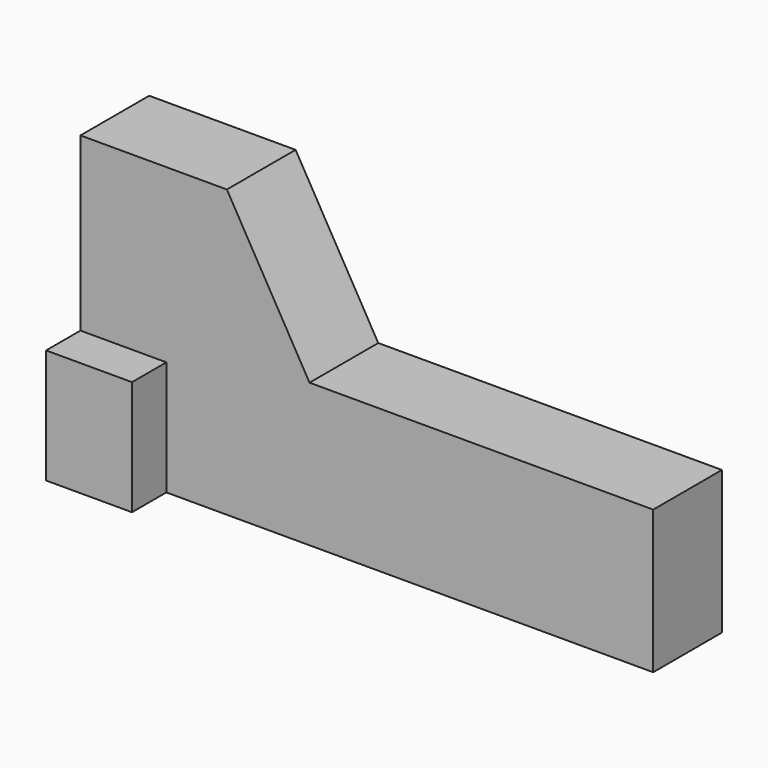
from build123d import *

# Parameters (mm, degrees)
F1_DEPTH = 19.05
F2_W     = 19.05
F2_H     = 25.4
F3_DEPTH = 9.525
F4_W     = 19.05
F4_H     = 25.4
F5_DEPTH = 9.525


with BuildPart() as f1:
    # F0 (on Front) → F1 (new body)
    with BuildSketch(Plane.XZ):
        Polygon((-24.033516, 31.16705), (-56.502645, 31.16705), (-56.502645, -32.33295), (70.497355, -32.33295), (70.497355, -0.58295), (-5.702645, -0.58295), align=None)
    extrude(amount=F1_DEPTH)

    # F2 (on face) → F3 (join)
    with BuildSketch(Plane.XZ.offset(19.05)):
        with Locations((-46.977645, -19.63295)):
            Rectangle(F2_W, F2_H)
    extrude(amount=F3_DEPTH)

    # F4 (on face) → F5 (join)
    with BuildSketch(Plane(origin=(0, 0, 0), x_dir=(-1, 0, 0), z_dir=(0, 1, 0))):
        with Locations((46.977645, -19.63295)):
            Rectangle(F4_W, F4_H)
    extrude(amount=F5_DEPTH)


solid = f1.part
